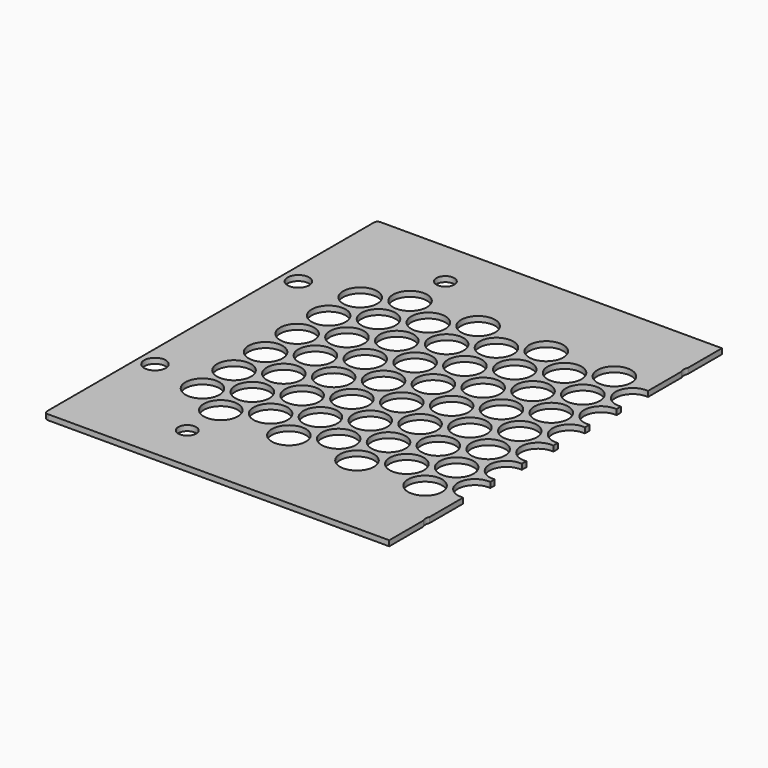
from build123d import *

# Parameters (mm, degrees)
SKETCH090_W     = 445
SKETCH090_H     = 232
PAD027_DEPTH    = 3
SKETCH091_R     = 9.5
POCKET060_DEPTH = 5
FILLET012_R     = 2
POCKET061_DEPTH = 10.001
SKETCH093_R     = 6
SKETCH093_R_2   = 5
POCKET062_DEPTH = 5
SKETCH096_W     = 453.694824
SKETCH096_H     = 509.793549
POCKET065_DEPTH = 5


with BuildPart() as part:
    # Sketch090 → Pad027 (new body)
    with BuildSketch(Plane.XY):
        Rectangle(SKETCH090_W, SKETCH090_H)
    extrude(amount=PAD027_DEPTH)

    # Sketch091 (on Face6 of Pad027) → Pocket060 (cut)
    with BuildSketch(Plane.XY.offset(3)):
        with Locations((-183, 55)):
            Circle(SKETCH091_R)
        with Locations((-183, 33)):
            Circle(SKETCH091_R)
        with Locations((-183, 11)):
            Circle(SKETCH091_R)
        with Locations((-183, -11)):
            Circle(SKETCH091_R)
        with Locations((-183, -33)):
            Circle(SKETCH091_R)
        with Locations((-183, -55)):
            Circle(SKETCH091_R)
        with Locations((-164, 44)):
            Circle(SKETCH091_R)
        with Locations((-164, 22)):
            Circle(SKETCH091_R)
        with Locations((-164, 0)):
            Circle(SKETCH091_R)
        with Locations((-164, -22)):
            Circle(SKETCH091_R)
        with Locations((-164, -44)):
            Circle(SKETCH091_R)
        with Locations((-145, 55)):
            Circle(SKETCH091_R)
        with Locations((-145, 33)):
            Circle(SKETCH091_R)
        with Locations((-145, 11)):
            Circle(SKETCH091_R)
        with Locations((-145, -11)):
            Circle(SKETCH091_R)
        with Locations((-145, -33)):
            Circle(SKETCH091_R)
        with Locations((-145, -55)):
            Circle(SKETCH091_R)
        with Locations((-126, 44)):
            Circle(SKETCH091_R)
        with Locations((-126, 22)):
            Circle(SKETCH091_R)
        with Locations((-126, 0)):
            Circle(SKETCH091_R)
        with Locations((-126, -22)):
            Circle(SKETCH091_R)
        with Locations((-126, -44)):
            Circle(SKETCH091_R)
        with Locations((-107, 55)):
            Circle(SKETCH091_R)
        with Locations((-107, 33)):
            Circle(SKETCH091_R)
        with Locations((-107, 11)):
            Circle(SKETCH091_R)
        with Locations((-107, -11)):
            Circle(SKETCH091_R)
        with Locations((-107, -33)):
            Circle(SKETCH091_R)
        with Locations((-107, -55)):
            Circle(SKETCH091_R)
        with Locations((-88, -44)):
            Circle(SKETCH091_R)
        with Locations((-88, -22)):
            Circle(SKETCH091_R)
        with Locations((-88, 0)):
            Circle(SKETCH091_R)
        with Locations((-88, 22)):
            Circle(SKETCH091_R)
        with Locations((-88, 44)):
            Circle(SKETCH091_R)
        with Locations((-69, 55)):
            Circle(SKETCH091_R)
        with Locations((-69, 33)):
            Circle(SKETCH091_R)
        with Locations((-69, 11)):
            Circle(SKETCH091_R)
        with Locations((-69, -11)):
            Circle(SKETCH091_R)
        with Locations((-69, -33)):
            Circle(SKETCH091_R)
        with Locations((-50, 44)):
            Circle(SKETCH091_R)
        with Locations((-50, 22)):
            Circle(SKETCH091_R)
        with Locations((-50, 0)):
            Circle(SKETCH091_R)
        with Locations((-50, -22)):
            Circle(SKETCH091_R)
        with Locations((-50, -44)):
            Circle(SKETCH091_R)
        with Locations((-69, -55)):
            Circle(SKETCH091_R)
        with Locations((-31, 55)):
            Circle(SKETCH091_R)
        with Locations((-31, 33)):
            Circle(SKETCH091_R)
        with Locations((-31, 11)):
            Circle(SKETCH091_R)
        with Locations((-31, -11)):
            Circle(SKETCH091_R)
        with Locations((-31, -33)):
            Circle(SKETCH091_R)
        with Locations((-31, -55)):
            Circle(SKETCH091_R)
        with Locations((-12, -44)):
            Circle(SKETCH091_R)
        with Locations((-12, -22)):
            Circle(SKETCH091_R)
        with Locations((-12, 0)):
            Circle(SKETCH091_R)
        with Locations((-12, 22)):
            Circle(SKETCH091_R)
        with Locations((-12, 44)):
            Circle(SKETCH091_R)
        with Locations((7, 55)):
            Circle(SKETCH091_R)
        with Locations((7, 33)):
            Circle(SKETCH091_R)
        with Locations((7, 11)):
            Circle(SKETCH091_R)
        with Locations((7, -11)):
            Circle(SKETCH091_R)
        with Locations((7, -33)):
            Circle(SKETCH091_R)
        with Locations((7, -55)):
            Circle(SKETCH091_R)
        with Locations((26, -44)):
            Circle(SKETCH091_R)
        with Locations((26, -22)):
            Circle(SKETCH091_R)
        with Locations((26, 0)):
            Circle(SKETCH091_R)
        with Locations((26, 22)):
            Circle(SKETCH091_R)
        with Locations((26, 44)):
            Circle(SKETCH091_R)
        with Locations((45, 55)):
            Circle(SKETCH091_R)
        with Locations((45, 33)):
            Circle(SKETCH091_R)
        with Locations((45, 11)):
            Circle(SKETCH091_R)
        with Locations((45, -11)):
            Circle(SKETCH091_R)
        with Locations((64, 0)):
            Circle(SKETCH091_R)
        with Locations((64, 22)):
            Circle(SKETCH091_R)
        with Locations((64, 44)):
            Circle(SKETCH091_R)
        with Locations((45, -33)):
            Circle(SKETCH091_R)
        with Locations((45, -55)):
            Circle(SKETCH091_R)
        with Locations((64, -44)):
            Circle(SKETCH091_R)
        with Locations((64, -22)):
            Circle(SKETCH091_R)
        with Locations((83, 55)):
            Circle(SKETCH091_R)
        with Locations((83, 33)):
            Circle(SKETCH091_R)
        with Locations((83, 11)):
            Circle(SKETCH091_R)
        with Locations((83, -11)):
            Circle(SKETCH091_R)
        with Locations((83, -33)):
            Circle(SKETCH091_R)
        with Locations((83, -55)):
            Circle(SKETCH091_R)
        with Locations((102, 44)):
            Circle(SKETCH091_R)
        with Locations((102, 22)):
            Circle(SKETCH091_R)
        with Locations((102, 0)):
            Circle(SKETCH091_R)
        with Locations((102, -22)):
            Circle(SKETCH091_R)
        with Locations((102, -44)):
            Circle(SKETCH091_R)
        with Locations((121, 55)):
            Circle(SKETCH091_R)
        with Locations((121, 33)):
            Circle(SKETCH091_R)
        with Locations((121, 11)):
            Circle(SKETCH091_R)
        with Locations((121, -11)):
            Circle(SKETCH091_R)
        with Locations((121, -33)):
            Circle(SKETCH091_R)
        with Locations((121, -55)):
            Circle(SKETCH091_R)
        with Locations((140, 44)):
            Circle(SKETCH091_R)
        with Locations((140, 22)):
            Circle(SKETCH091_R)
        with Locations((140, 0)):
            Circle(SKETCH091_R)
        with Locations((140, -22)):
            Circle(SKETCH091_R)
        with Locations((140, -44)):
            Circle(SKETCH091_R)
        with Locations((159, 55)):
            Circle(SKETCH091_R)
        with Locations((159, 33)):
            Circle(SKETCH091_R)
        with Locations((159, 11)):
            Circle(SKETCH091_R)
        with Locations((159, -11)):
            Circle(SKETCH091_R)
        with Locations((159, -33)):
            Circle(SKETCH091_R)
        with Locations((159, -55)):
            Circle(SKETCH091_R)
        with Locations((-164, 66)):
            Circle(SKETCH091_R)
        with Locations((-126, 66)):
            Circle(SKETCH091_R)
        with Locations((-88, 66)):
            Circle(SKETCH091_R)
        with Locations((-50, 66)):
            Circle(SKETCH091_R)
        with Locations((-12, 66)):
            Circle(SKETCH091_R)
        with Locations((26, 66)):
            Circle(SKETCH091_R)
        with Locations((64, 66)):
            Circle(SKETCH091_R)
        with Locations((102, 66)):
            Circle(SKETCH091_R)
        with Locations((140, 66)):
            Circle(SKETCH091_R)
        with Locations((-164, -66)):
            Circle(SKETCH091_R)
        with Locations((-126, -66)):
            Circle(SKETCH091_R)
        with Locations((-88, -66)):
            Circle(SKETCH091_R)
        with Locations((-50, -66)):
            Circle(SKETCH091_R)
        with Locations((-12, -66)):
            Circle(SKETCH091_R)
        with Locations((26, -66)):
            Circle(SKETCH091_R)
        with Locations((64, -66)):
            Circle(SKETCH091_R)
        with Locations((102, -66)):
            Circle(SKETCH091_R)
        with Locations((140, -66)):
            Circle(SKETCH091_R)
        with Locations((178, 66)):
            Circle(SKETCH091_R)
        with Locations((178, 44)):
            Circle(SKETCH091_R)
        with Locations((178, 22)):
            Circle(SKETCH091_R)
        with Locations((178, 0)):
            Circle(SKETCH091_R)
        with Locations((178, -22)):
            Circle(SKETCH091_R)
        with Locations((178, -44)):
            Circle(SKETCH091_R)
        with Locations((178, -66)):
            Circle(SKETCH091_R)
    extrude(amount=-POCKET060_DEPTH, mode=Mode.SUBTRACT)

    # Fillet012
    fillet012_edges = [part.edges().sort_by_distance(p)[0] for p in [
        (-222.5, -116, 1.5),
        (222.5, -116, 1.5),
        (222.5, 116, 1.5),
        (-222.5, 116, 1.5),
    ]]
    fillet(fillet012_edges, radius=FILLET012_R)

    # Sketch092 → Pocket061 (cut, through all)
    with BuildSketch(Plane.XY.offset(10)):
        Polygon((188.873749, -62), (214.664444, -62), (214.664444, 62), (188.873749, 62), (188.873749, 11.724954), (183.462372, 4.250606), (183.462372, -4.752587), (188.873749, -11.972128), align=None)
    extrude(amount=-POCKET061_DEPTH, mode=Mode.SUBTRACT)

    # Sketch093 (on Face2 of Pocket061) → Pocket062 (cut)
    with BuildSketch(Plane(origin=(0, 0, 0), x_dir=(1, 0, 0), z_dir=(0, 0, -1))):
        with Locations((213.5, 50)):
            Circle(SKETCH093_R)
        with Locations((213.5, -50)):
            Circle(SKETCH093_R)
        with Locations((-213.5, 50)):
            Circle(SKETCH093_R)
        with Locations((-213.5, -50)):
            Circle(SKETCH093_R)
        with Locations((-163.5, 90)):
            Circle(SKETCH093_R_2)
        with Locations((-25.5, 90)):
            Circle(SKETCH093_R_2)
        with Locations((163.5, 90)):
            Circle(SKETCH093_R_2)
        with Locations((163.5, -90)):
            Circle(SKETCH093_R_2)
        with Locations((-25.5, -90)):
            Circle(SKETCH093_R_2)
        with Locations((-163.5, -90)):
            Circle(SKETCH093_R_2)
    extrude(amount=-POCKET062_DEPTH, mode=Mode.SUBTRACT)

    # Sketch096 (on Face5 of Pocket062) → Pocket065 (cut)
    with BuildSketch(Plane.XY.offset(3)):
        with Locations((196.847412, -60.920081)):
            Rectangle(SKETCH096_W, SKETCH096_H)
    extrude(amount=-POCKET065_DEPTH, mode=Mode.SUBTRACT)


with BuildPart() as part_1:
    # Body023 placement: moved
    add(part.part.moved(Location((0, 0, -3))))


solid = part_1.part
